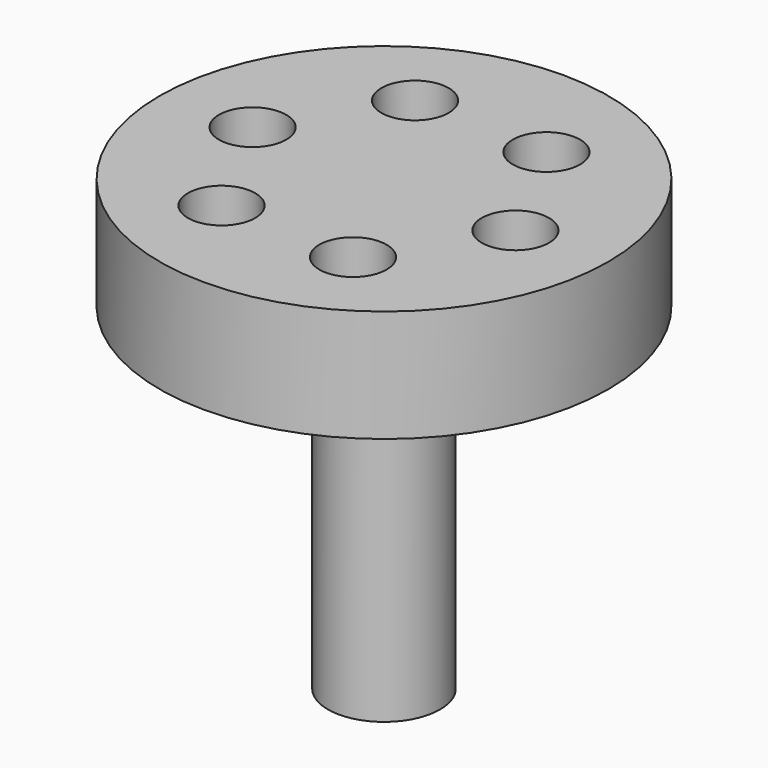
from build123d import *

# Parameters (mm, degrees)
SKETCH001_R        = 3
POCKET_DEPTH       = 10
POLARPATTERN_COUNT = 6


with BuildPart() as part:
    # Sketch → Revolution (revolve)
    with BuildSketch(Plane.XZ):
        Polygon((0, 0), (5, 0), (5, 30), (20, 30), (20, 40), (0, 40), align=None)
    revolve(axis=Axis((0, 0, 0), (0, 0, 1)))

    # Sketch001 (on Face5 of Revolution) → Pocket (cut)
    with BuildSketch(Plane.XY.offset(40)):
        with Locations((-5.688479, 10.56604)):
            Circle(SKETCH001_R)
    pocket = extrude(amount=-POCKET_DEPTH, mode=Mode.SUBTRACT)

    # PolarPattern: Pocket ×6 about axis
    polarpattern_axis = Axis((0, 0, 40), (0, 0, 1))
    for i in range(1, POLARPATTERN_COUNT):
        add(pocket.rotate(polarpattern_axis, i * 360 / POLARPATTERN_COUNT), mode=Mode.SUBTRACT)


solid = part.part
